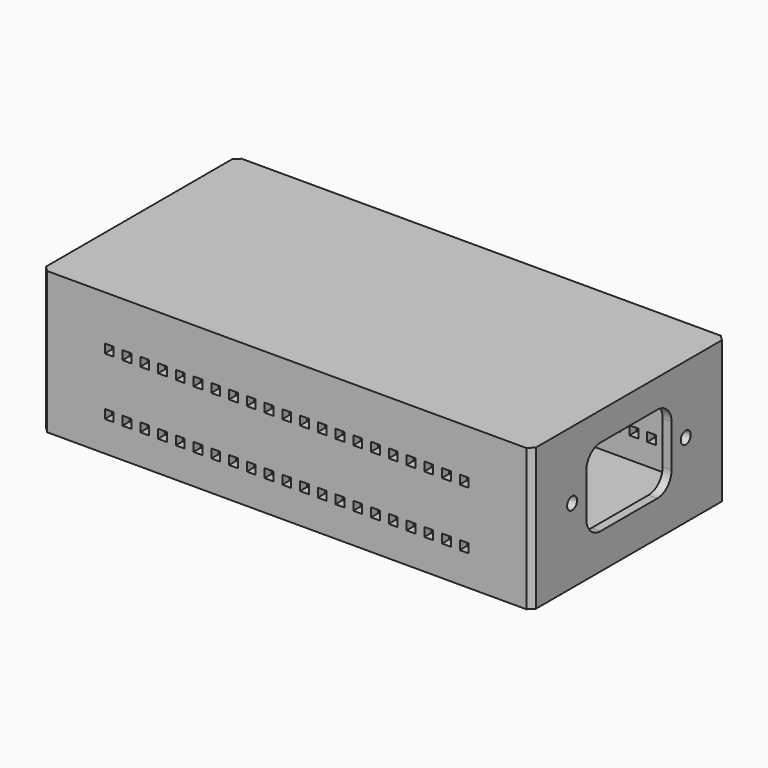
from build123d import *

# Parameters (mm, degrees)
F0_W     = 138
F0_H     = 68.5
F1_DEPTH = 40
F2_T     = -2.5
F3_SIZE  = 1.5
F4_W     = 30
F4_H     = 22
F4_R     = 1.75
F5_DEPTH = 25
F6_R     = 5
F7_W     = 2.5
F7_H     = 2.5
F8_DEPTH = 89.7


with BuildPart() as f1:
    # F0 (on Top) → F1 (new body)
    with BuildSketch(Plane.XY):
        Rectangle(F0_W, F0_H)
    extrude(amount=F1_DEPTH)

    # F2 (hollow: no face is removed)
    offset(amount=F2_T, mode=Mode.SUBTRACT)

    # F3
    f3_edges = [f1.edges().sort_by_distance(p)[0] for p in [
        (-69, 34.25, 20),
        (-69, -34.25, 20),
        (69, 34.25, 20),
        (69, -34.25, 20),
    ]]
    chamfer(f3_edges, length=F3_SIZE)

    # F4 (on face) → F5 (cut)
    with BuildSketch(Plane.YZ.offset(69)):
        with Locations((0, 21)):
            Rectangle(F4_W, F4_H)
        with Locations((-20, 21)):
            Circle(F4_R)
        with Locations((20, 21)):
            Circle(F4_R)
    extrude(amount=-F5_DEPTH, mode=Mode.SUBTRACT)

    # F6
    f6_edges = [f1.edges().sort_by_distance(p)[0] for p in [
        (67.75, -15, 10),
        (67.75, 15, 10),
        (67.75, 15, 32),
        (67.75, -15, 32),
    ]]
    fillet(f6_edges, radius=F6_R)

    # F7 (on face) → F8 (cut)
    with BuildSketch(Plane(origin=(0, 34.25, 0), x_dir=(-1, 0, 0), z_dir=(0, 1, 0))):
        with Locations((0, 26.0408017784)):
            Rectangle(F7_W, F7_H)
        with Locations((5, 26.0408017784)):
            Rectangle(F7_W, F7_H)
        with Locations((10, 26.0408017784)):
            Rectangle(F7_W, F7_H)
        with Locations((15, 26.0408017784)):
            Rectangle(F7_W, F7_H)
        with Locations((20, 26.0408017784)):
            Rectangle(F7_W, F7_H)
        with Locations((25, 26.0408017784)):
            Rectangle(F7_W, F7_H)
        with Locations((30, 26.0408017784)):
            Rectangle(F7_W, F7_H)
        with Locations((35, 26.0408017784)):
            Rectangle(F7_W, F7_H)
        with Locations((40, 26.0408017784)):
            Rectangle(F7_W, F7_H)
        with Locations((45, 26.0408017784)):
            Rectangle(F7_W, F7_H)
        with Locations((-50, 26.0808162406)):
            Rectangle(F7_W, F7_H)
        with Locations((-45, 26.0808162406)):
            Rectangle(F7_W, F7_H)
        with Locations((-40, 26.0808162406)):
            Rectangle(F7_W, F7_H)
        with Locations((-35, 26.0808162406)):
            Rectangle(F7_W, F7_H)
        with Locations((-30, 26.0808162406)):
            Rectangle(F7_W, F7_H)
        with Locations((-25, 26.0808162406)):
            Rectangle(F7_W, F7_H)
        with Locations((-20, 26.0808162406)):
            Rectangle(F7_W, F7_H)
        with Locations((-15, 26.0808162406)):
            Rectangle(F7_W, F7_H)
        with Locations((-10, 26.0808162406)):
            Rectangle(F7_W, F7_H)
        with Locations((-5, 26.0808162406)):
            Rectangle(F7_W, F7_H)
        with Locations((50, 26.0808058083)):
            Rectangle(F7_W, F7_H)
        with Locations((0, 9.7923632605)):
            Rectangle(F7_W, F7_H)
        with Locations((5, 9.7923632605)):
            Rectangle(F7_W, F7_H)
        with Locations((10, 9.7923632605)):
            Rectangle(F7_W, F7_H)
        with Locations((15, 9.7923632605)):
            Rectangle(F7_W, F7_H)
        with Locations((20, 9.7923632605)):
            Rectangle(F7_W, F7_H)
        with Locations((25, 9.7923632605)):
            Rectangle(F7_W, F7_H)
        with Locations((30, 9.7923632605)):
            Rectangle(F7_W, F7_H)
        with Locations((35, 9.7923632605)):
            Rectangle(F7_W, F7_H)
        with Locations((40, 9.7923632605)):
            Rectangle(F7_W, F7_H)
        with Locations((45, 9.7923632605)):
            Rectangle(F7_W, F7_H)
        with Locations((-50, 9.8323777226)):
            Rectangle(F7_W, F7_H)
        with Locations((-45, 9.8323777226)):
            Rectangle(F7_W, F7_H)
        with Locations((-40, 9.8323777226)):
            Rectangle(F7_W, F7_H)
        with Locations((-35, 9.8323777226)):
            Rectangle(F7_W, F7_H)
        with Locations((-30, 9.8323777226)):
            Rectangle(F7_W, F7_H)
        with Locations((-25, 9.8323777226)):
            Rectangle(F7_W, F7_H)
        with Locations((-20, 9.8323777226)):
            Rectangle(F7_W, F7_H)
        with Locations((-15, 9.8323777226)):
            Rectangle(F7_W, F7_H)
        with Locations((-10, 9.8323777226)):
            Rectangle(F7_W, F7_H)
        with Locations((-5, 9.8323777226)):
            Rectangle(F7_W, F7_H)
        with Locations((50, 9.8323672904)):
            Rectangle(F7_W, F7_H)
    extrude(amount=-F8_DEPTH, mode=Mode.SUBTRACT)


solid = f1.part
